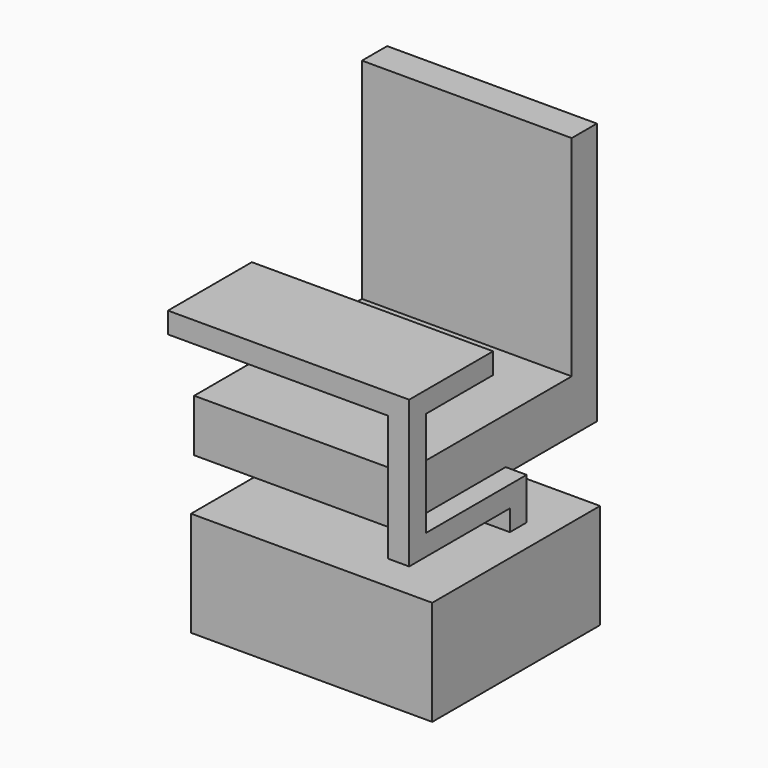
from build123d import *

# Parameters (mm, degrees)
F0_W      = 29.21
F0_H      = 25.4
F1_DEPTH  = 12.7
F2_W      = 6.35
F2_H      = 6.35
F3_DEPTH  = 7.62
F4_W      = 25.4
F4_H      = 29.21
F5_DEPTH  = 6.35
F6_W      = 25.4
F6_H      = 3.81
F7_DEPTH  = 25.4
F8_W      = 2.54
F8_H      = 2.54
F9_DEPTH  = 12.7
F10_W     = 2.54
F10_H     = 17.78
F11_DEPTH = 2.54
F12_W     = 2.54
F12_H     = 2.54
F13_DEPTH = 12.7
F14_W     = 29.21
F14_H     = 12.7
F15_DEPTH = 2.54


with BuildPart() as f1:
    # F0 (on Top) → F1 (new body)
    with BuildSketch(Plane.XY):
        Rectangle(F0_W, F0_H)
    extrude(amount=F1_DEPTH)

    # F2 (on face) → F3 (join)
    with BuildSketch(Plane.XY.offset(12.7)):
        Rectangle(F2_W, F2_H)
    extrude(amount=F3_DEPTH)

    # F4 (on face) → F5 (join)
    with BuildSketch(Plane.XY.offset(20.32)):
        Rectangle(F4_W, F4_H)
    extrude(amount=F5_DEPTH)

    # F6 (on face) → F7 (join)
    with BuildSketch(Plane.XY.offset(26.67)):
        with Locations((0, 12.7)):
            Rectangle(F6_W, F6_H)
    extrude(amount=F7_DEPTH)

    # F8 (on face) → F9 (join)
    with BuildSketch(Plane.YZ.offset(3.175)):
        with Locations((-1.27, 17.78)):
            Rectangle(F8_W, F8_H)
    extrude(amount=F9_DEPTH)

    # F10 (on face) → F11 (join)
    with BuildSketch(Plane.XY.offset(19.05)):
        with Locations((14.605, -8.89)):
            Rectangle(F10_W, F10_H)
    extrude(amount=F11_DEPTH)

    # F12 (on face) → F13 (join)
    with BuildSketch(Plane.XY.offset(21.59)):
        with Locations((14.605, -16.51)):
            Rectangle(F12_W, F12_H)
    extrude(amount=F13_DEPTH)

    # F14 (on face) → F15 (join)
    with BuildSketch(Plane.XY.offset(34.29)):
        with Locations((1.27, -11.43)):
            Rectangle(F14_W, F14_H)
    extrude(amount=F15_DEPTH)


solid = f1.part
